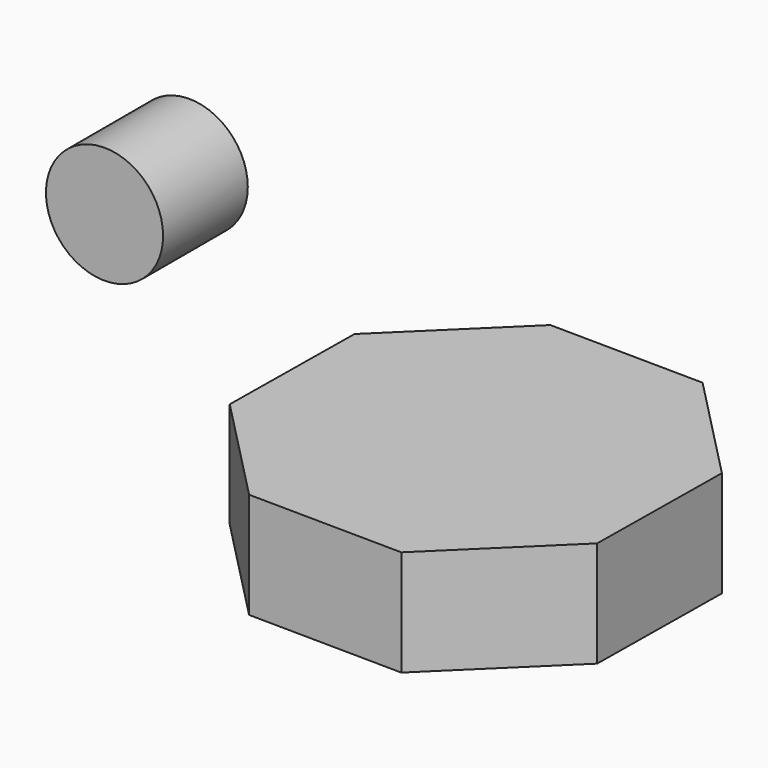
from build123d import *

# Parameters (mm, degrees)
F1_DEPTH = 25.4
F2_R     = 14.047314
F3_DEPTH = 25.4


with BuildPart() as f1:
    # F0 (on Top) → F1 (new body)
    with BuildSketch(Plane.XY):
        Polygon((17.890828, -44.721727), (44.273762, -18.972311), (44.721727, 17.890828), (18.972311, 44.273762), (-17.890828, 44.721727), (-44.273762, 18.972311), (-44.721727, -17.890828), (-18.972311, -44.273762), align=None)
    extrude(amount=F1_DEPTH)


with BuildPart() as f3:
    # F2 (on Front) → F3 (new body)
    with BuildSketch(Plane.XZ):
        with Locations((-68.753064, 60.776796)):
            Circle(F2_R)
    extrude(amount=F3_DEPTH)


solid = Compound([f1.part, f3.part])
